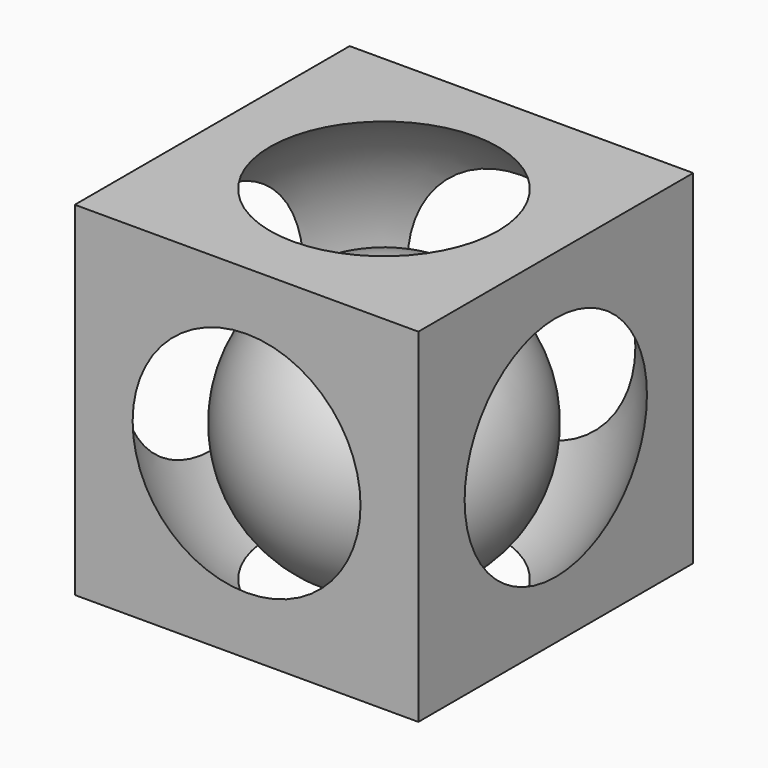
from build123d import *

# Parameters (mm, degrees)
BOX_W     = 30
BOX_H     = 30
BOX_DEPTH = 30


with BuildPart() as obj1:
    # Sphere → Sphere (revolve)
    with BuildSketch(Plane(origin=(15, 15, 15), x_dir=(1, 0, 0), z_dir=(0, -1, 0))):
        with BuildLine():
            ThreePointArc((0, -18), (18, 0), (0, 18))
            Line((0, 18), (0, -18))
        make_face()
    revolve(axis=Axis((15, 15, 15), (0, 0, 1)))


with BuildPart() as obj2:
    # Box → Box (new body)
    with BuildSketch(Plane.XY):
        with Locations((15, 15)):
            Rectangle(BOX_W, BOX_H)
    extrude(amount=BOX_DEPTH)

    # Cut: cut obj1
    add(obj1.part, mode=Mode.SUBTRACT)


with BuildPart() as esfera_interior:
    # Sphere001 → Sphere001 (revolve)
    with BuildSketch(Plane(origin=(15, 15, 12), x_dir=(1, 0, 0), z_dir=(0, -1, 0))):
        with BuildLine():
            ThreePointArc((0, -12), (12, 0), (0, 12))
            Line((0, 12), (0, -12))
        make_face()
    revolve(axis=Axis((15, 15, 12), (0, 0, 1)))


solid = Compound([obj2.part, esfera_interior.part])
